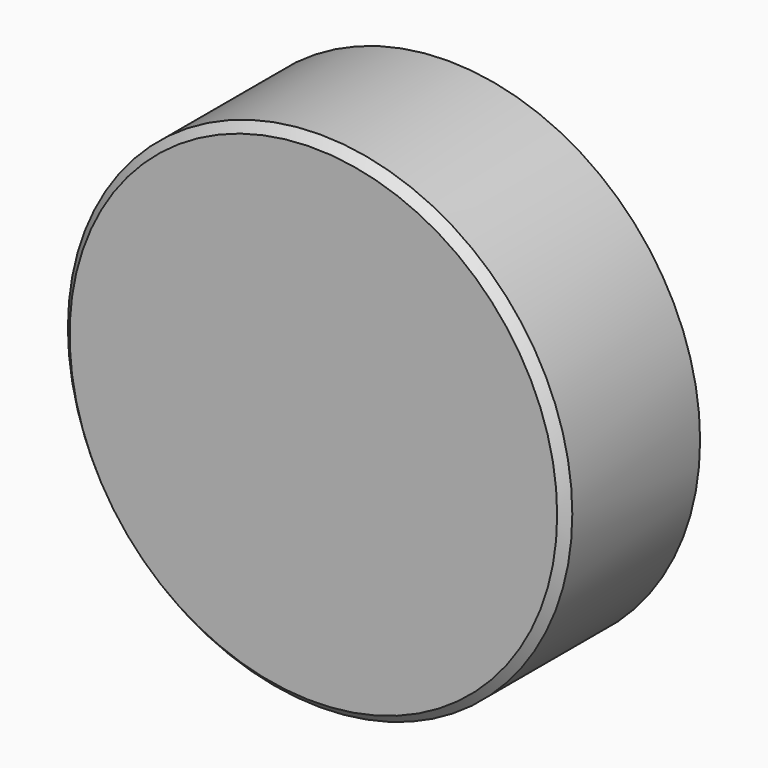
from build123d import *

# Parameters (mm, degrees)
F0_R     = 19.05
F1_DEPTH = 22.225
F2_R     = 19.05
F2_R_2   = 6.35
F3_DEPTH = 9.525
F4_SIZE  = 0.635


with BuildPart() as f1:
    # F0 (on Front) → F1 (new body)
    with BuildSketch(Plane.XZ):
        Circle(F0_R)
    extrude(amount=F1_DEPTH)

    # F2 (on face) → F3 (cut)
    with BuildSketch(Plane(origin=(0, 0, 0), x_dir=(-1, 0, 0), z_dir=(0, 1, 0))):
        Circle(F2_R)
        Circle(F2_R_2, mode=Mode.SUBTRACT)
    extrude(amount=-F3_DEPTH, mode=Mode.SUBTRACT)

    # F4
    f4_edges = [f1.edges().sort_by_distance(p)[0] for p in [
        (6.35, 0, 0),
        (-19.05, -22.225, 0),
    ]]
    chamfer(f4_edges, length=F4_SIZE)


solid = f1.part
